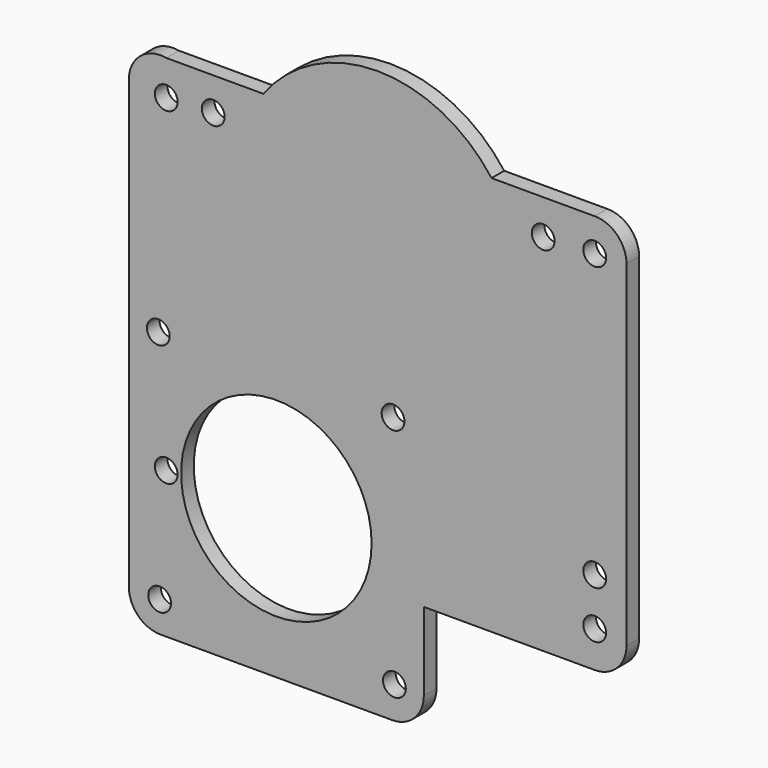
from build123d import *

# Parameters (mm, degrees)
F0_R     = 2.286
F0_R_2   = 19.1135
F1_DEPTH = 3.175


with BuildPart() as f1:
    # F0 (on Front) → F1 (new body)
    with BuildSketch(Plane.XZ):
        with BuildLine():
            Line((-15.281446, 47.29228), (-34.763334, 47.29228))
            ThreePointArc((-34.763334, 47.29228), (-39.972318, 45.923525), (-42.256334, 41.045997))
            Line((-42.256334, 41.045997), (-42.256334, -48.587158))
            ThreePointArc((-42.256334, -48.587158), (-40.396462, -53.077286), (-35.906334, -54.937158))
            Line((-35.906334, -54.937158), (10.575666, -54.937158))
            ThreePointArc((10.575666, -54.937158), (15.065794, -53.077286), (16.925666, -48.587158))
            Line((16.925666, -48.587158), (16.925666, -32.87012))
            Line((16.925666, -32.87012), (51.241066, -32.87012))
            ThreePointArc((51.241066, -32.87012), (55.731194, -31.010248), (57.591066, -26.52012))
            Line((57.591066, -26.52012), (57.591066, 40.94228))
            ThreePointArc((57.591066, 40.94228), (55.731194, 45.432408), (51.241066, 47.29228))
            Line((51.241066, 47.29228), (30.514578, 47.29228))
            ThreePointArc((30.514578, 47.29228), (7.616566, 58.77308), (-15.281446, 47.29228))
        make_face()
        with Locations((-36.083831, -48.764958)):
            Circle(F0_R, mode=Mode.SUBTRACT)
        with Locations((-34.763334, -25.58032)):
            Circle(F0_R, mode=Mode.SUBTRACT)
        with Locations((-36.354786, -1.657008)):
            Circle(F0_R, mode=Mode.SUBTRACT)
        with Locations((-12.665334, -25.075505)):
            Circle(F0_R_2, mode=Mode.SUBTRACT)
        with Locations((11.024119, -48.494002)):
            Circle(F0_R, mode=Mode.SUBTRACT)
        with Locations((10.753163, -1.386053)):
            Circle(F0_R, mode=Mode.SUBTRACT)
        with Locations((51.215666, -25.58032)):
            Circle(F0_R, mode=Mode.SUBTRACT)
        with Locations((51.215666, -16.045962)):
            Circle(F0_R, mode=Mode.SUBTRACT)
        with Locations((-34.763334, 40.25648)):
            Circle(F0_R, mode=Mode.SUBTRACT)
        with Locations((-25.331567, 40.678487)):
            Circle(F0_R, mode=Mode.SUBTRACT)
        with Locations((40.877866, 40.25648)):
            Circle(F0_R, mode=Mode.SUBTRACT)
        with Locations((51.215666, 40.678487)):
            Circle(F0_R, mode=Mode.SUBTRACT)
    extrude(amount=F1_DEPTH)


solid = f1.part
